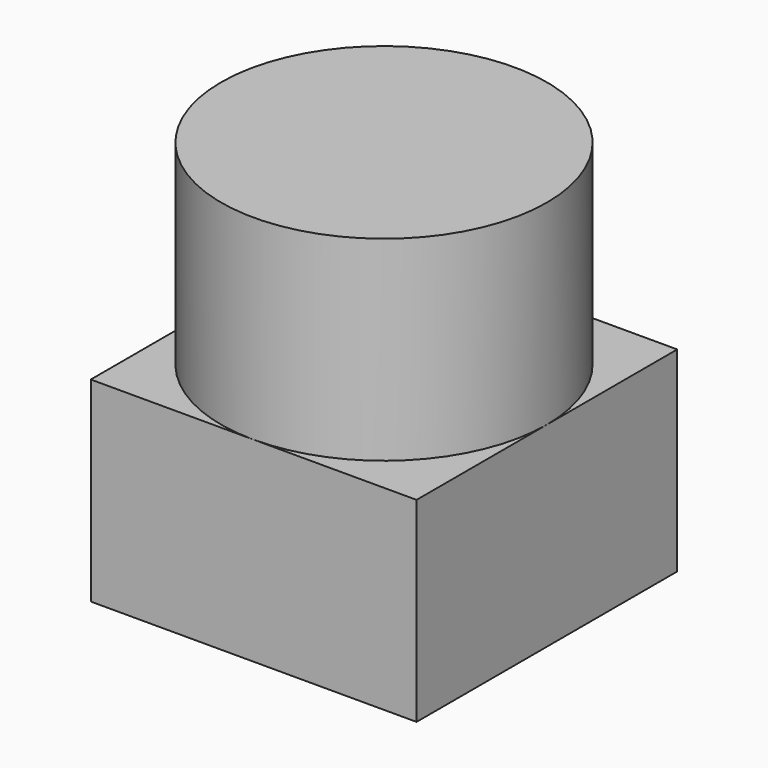
from build123d import *

# Parameters (mm, degrees)
SKETCH_W     = 10
SKETCH_H     = 10
PAD_DEPTH    = 6
SKETCH001_R  = 5
PAD001_DEPTH = 6


with BuildPart() as part:
    # Sketch → Pad (new body)
    with BuildSketch(Plane.XY):
        Rectangle(SKETCH_W, SKETCH_H)
    extrude(amount=PAD_DEPTH)

    # Sketch001 → Pad001 (join)
    with BuildSketch(Plane.XY.offset(6)):
        Circle(SKETCH001_R)
    extrude(amount=PAD001_DEPTH)


solid = part.part
